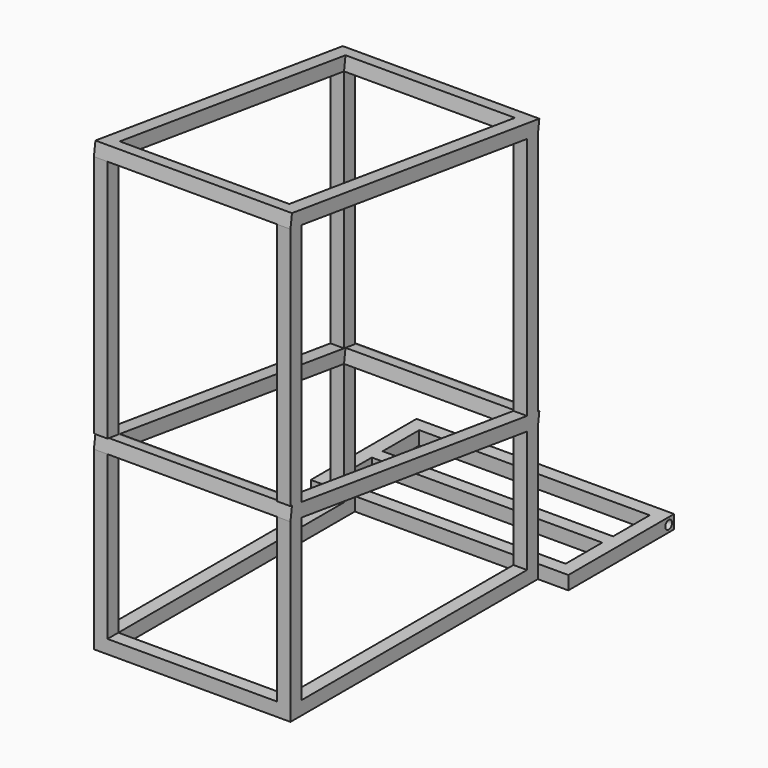
from build123d import *

# Parameters (mm, degrees)
F0_W     = 431.8
F0_H     = 25.4
F1_DEPTH = 25.4
F3_DEPTH = 25.4
F5_DEPTH = 368.3
F6_R     = 7.9375
F7_DEPTH = 482.6


with BuildPart() as f1:
    # F0 (on Top) → F1 (new body)
    with BuildSketch(Plane.XY):
        Polygon((241.3, 123.825), (-241.3, 123.825), (-241.3, -123.825), (-184.15, -123.825), (-158.75, -123.825), (158.75, -123.825), (184.15, -123.825), (241.3, -123.825), align=None)
        Polygon((-215.9, 98.425), (215.9, 98.425), (215.9, 12.7), (215.9, -12.7), (215.9, -98.425), (-215.9, -98.425), (-215.9, -12.7), (-215.9, 12.7), align=None, mode=Mode.SUBTRACT)
        Polygon((-158.75, -123.825), (-184.15, -123.825), (-184.15, -703.2752), (184.15, -703.2752), (184.15, -123.825), (158.75, -123.825), (158.75, -677.8752), (-158.75, -677.8752), align=None)
        Rectangle(F0_W, F0_H)
    extrude(amount=-F1_DEPTH)

    # F4: F3 across plane


with BuildPart() as f3:
    # F2 (on face) → F3 (new body)
    with BuildSketch(Plane.YZ.offset(184.15)):
        Polygon((-699.8117743353, 329.9627638121), (-703.2752, 304.8), (-677.8752, 301.3039209309), (-674.4117743353, 326.466684743), (-677.8752, 326.9433937971), align=None)
        Polygon((-674.4117743353, 326.466684743), (-677.8752, 301.3039209309), (-149.225, 228.5400272659), (-145.7615743353, 253.702791078), (-149.225, 254.1795001321), align=None)
        Polygon((-703.2752, 330.4394728662), (-699.8117743353, 329.9627638121), (-677.8752, 326.9433937971), (-677.8752, 783.9039209309), (-703.2752, 787.4), align=None)
        Polygon((-145.7615743353, 253.702791078), (-149.225, 228.5400272659), (-123.825, 225.0439481968), (-120.3615743353, 250.2067120089), (-123.825, 250.683421063), align=None)
        Polygon((-149.225, 254.1795001321), (-145.7615743353, 253.702791078), (-123.825, 250.683421063), (-123.825, 707.6439481968), (-149.225, 711.1400272659), align=None)
        Polygon((-674.4117743353, 809.066684743), (-677.8752, 783.9039209309), (-149.225, 711.1400272659), (-145.7615743353, 736.302791078), align=None)
        Polygon((-703.2752, 787.4), (-677.8752, 783.9039209309), (-674.4117743353, 809.066684743), (-699.8117743353, 812.5627638121), align=None)
        Polygon((-145.7615743353, 736.302791078), (-149.225, 711.1400272659), (-123.825, 707.6439481968), (-120.3615743353, 732.8067120089), align=None)
        Polygon((-703.2752, 304.8), (-703.2752, 0), (-677.8752, 0), (-677.8752, 301.3039209309), align=None)
        Polygon((-149.225, 228.5400272659), (-149.225, 0), (-123.825, 0), (-123.825, 225.0439481968), align=None)
    extrude(amount=-F3_DEPTH)


with BuildPart() as f1_1:
    add(f1.part)
    add(f3.part.mirror(Plane.YZ))


    add(f3.part)  # F5 merges F3
    # F2 (on face) → F5 (join)
    with BuildSketch(Plane.YZ.offset(184.15)):
        Polygon((-699.8117743353, 329.9627638121), (-703.2752, 304.8), (-677.8752, 301.3039209309), (-674.4117743353, 326.466684743), (-677.8752, 326.9433937971), align=None)
        Polygon((-145.7615743353, 253.702791078), (-149.225, 228.5400272659), (-123.825, 225.0439481968), (-120.3615743353, 250.2067120089), (-123.825, 250.683421063), align=None)
        Polygon((-703.2752, 787.4), (-677.8752, 783.9039209309), (-674.4117743353, 809.066684743), (-699.8117743353, 812.5627638121), align=None)
        Polygon((-145.7615743353, 736.302791078), (-149.225, 711.1400272659), (-123.825, 707.6439481968), (-120.3615743353, 732.8067120089), align=None)
    extrude(amount=-F5_DEPTH)

    # F6 (on face) → F7 (cut)
    with BuildSketch(Plane.YZ.offset(241.3)):
        with Locations((111.125, -12.7)):
            Circle(F6_R)
    extrude(amount=-F7_DEPTH, mode=Mode.SUBTRACT)


solid = f1_1.part
